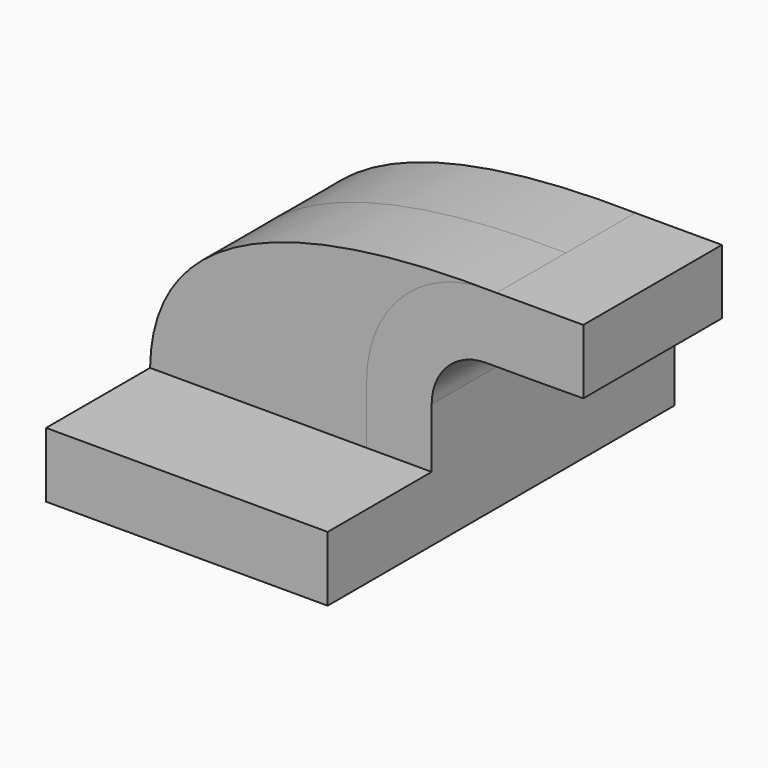
from build123d import *

# Parameters (mm, degrees)
F1_DEPTH = 63.5
F2_DEPTH = 25.4
F3_DEPTH = 25.4
F4_DEPTH = 25.4


with BuildPart() as f1:
    # F0 (on Front) → F1 (new body, symmetric)
    with BuildSketch(Plane.XZ):
        Polygon((41.275, -9.525), (41.275, 9.525), (22.225, 9.525), (-41.275, 9.525), (-41.275, -9.525), align=None)
    extrude(amount=F1_DEPTH, both=True)

    # F0 (on Front) → F2 (join, symmetric)
    with BuildSketch(Plane.XZ):
        with BuildLine():
            Line((22.225, 9.525), (41.275, 9.525))
            Line((41.275, 9.525), (41.275, 26.9875))
            ThreePointArc((41.275, 26.9875), (45.92468, 38.21282), (57.15, 42.8625))
            Line((57.15, 42.8625), (60.325, 42.8625))
            Line((60.325, 42.8625), (60.325, 61.9125))
            Line((60.325, 61.9125), (57.15, 61.9125))
            ThreePointArc((57.15, 61.9125), (32.454296, 51.683204), (22.225, 26.9875))
            Line((22.225, 26.9875), (22.225, 9.525))
        make_face()
    extrude(amount=F2_DEPTH, both=True)

    # F0 (on Front) → F3 (join, symmetric)
    with BuildSketch(Plane.XZ):
        Polygon((71.48385, 61.9125), (60.325, 61.9125), (60.325, 42.8625), (71.48385, 42.8625), (85.725, 42.952318), (85.725, 61.9125), align=None)
    extrude(amount=F3_DEPTH, both=True)


with BuildPart() as f4:
    # F0 (on Front) → F4 (new body, symmetric)
    with BuildSketch(Plane.XZ):
        with BuildLine():
            Line((-41.275, 9.525), (22.225, 9.525))
            Line((22.225, 9.525), (22.225, 26.9875))
            ThreePointArc((22.225, 26.9875), (32.454296, 51.683204), (57.15, 61.9125))
            Line((57.15, 61.9125), (60.325, 61.9125))
            add(Edge.make_bspline(
                [(-41.275, 9.525), (-40.544569, 55.239417), (16.622636, 62.674455), (60.325, 61.9125)],
                knots=[0, 0, 0, 0, 114.311024, 114.311024, 114.311024, 114.311024], degree=3))
        make_face()
    extrude(amount=F4_DEPTH, both=True)


solid = Compound([f1.part, f4.part])
